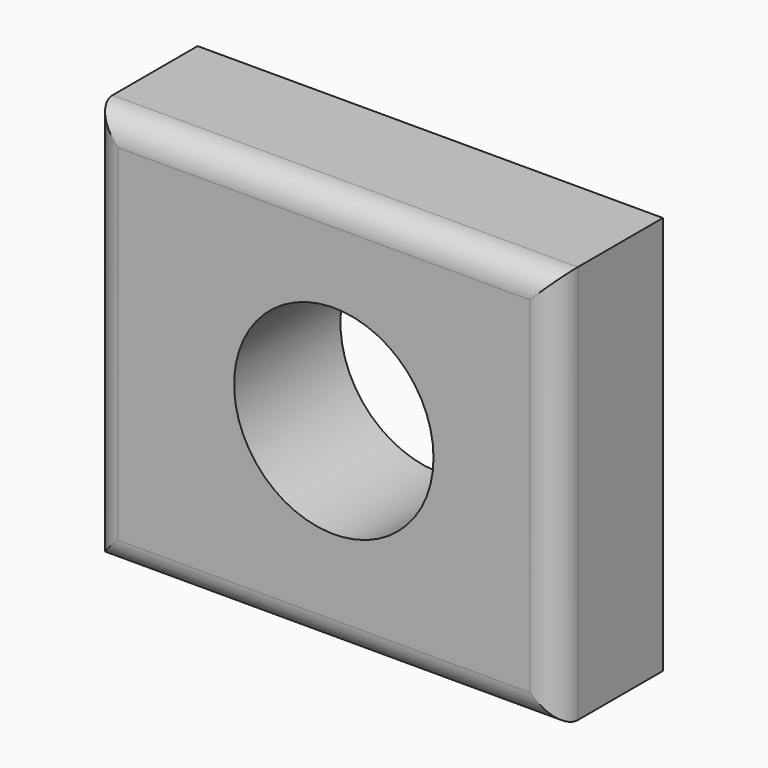
from build123d import *

# Parameters (mm, degrees)
F0_W     = 88.9
F0_H     = 76.2
F1_DEPTH = 25.4
F2_R     = 19.05
F3_DEPTH = 25.4
F4_R     = 5.08


with BuildPart() as f1:
    # F0 (on Front) → F1 (new body)
    with BuildSketch(Plane.XZ):
        with Locations((-1.889126, -0.429428)):
            Rectangle(F0_W, F0_H)
    extrude(amount=F1_DEPTH)

    # F2 (on face) → F3 (cut)
    with BuildSketch(Plane.XZ.offset(25.4)):
        Circle(F2_R)
    extrude(amount=-F3_DEPTH, mode=Mode.SUBTRACT)

    # F4
    f4_edges = [f1.edges().sort_by_distance(p)[0] for p in [
        (-46.339126, -25.4, -0.429428),
        (-1.889126, -25.4, 37.670572),
        (42.560874, -25.4, -0.429428),
        (-1.889126, -25.4, -38.529428),
    ]]
    fillet(f4_edges, radius=F4_R)


solid = f1.part
